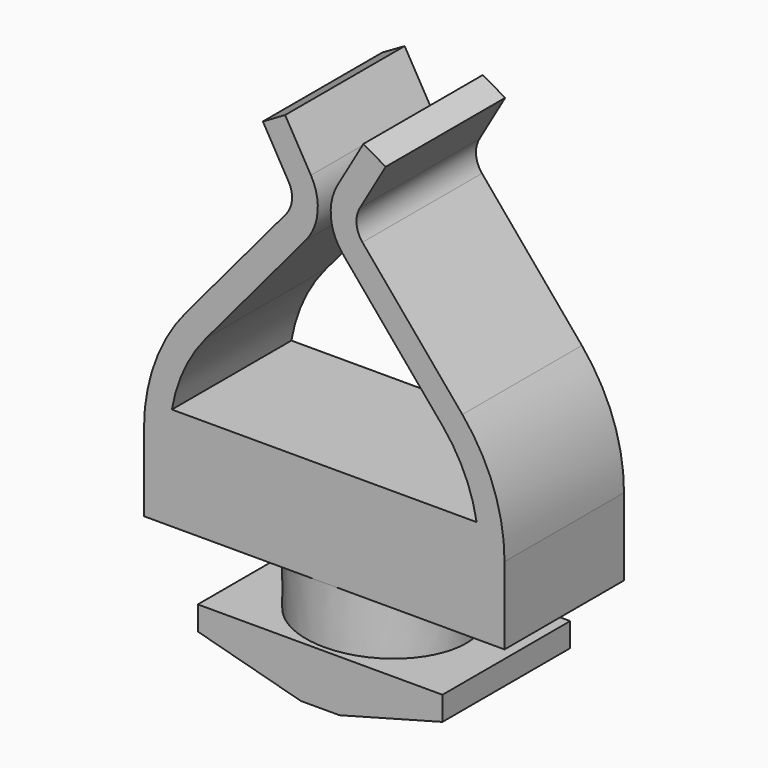
from build123d import *

# Parameters (mm, degrees)
F0_W     = 14
F0_H     = 3
F1_DEPTH = 2.9
F3_DEPTH = 2.2
F4_W     = 9.5
F4_H     = 2
F5_DEPTH = 3.1
F6_SIZE2 = 1.0717967697
F6_SIZE  = 4
F8_DEPTH = 2.9


with BuildPart() as f1:
    # F0 (on Front) → F1 (new body, symmetric)
    with BuildSketch(Plane.XZ):
        with Locations((0, 1.5)):
            Rectangle(F0_W, F0_H)
    extrude(amount=F1_DEPTH, both=True)

    # F2 (on face) → F3 (join)
    with BuildSketch(Plane(origin=(0, 0, 0), x_dir=(1, 0, 0), z_dir=(0, 0, -1))):
        with BuildLine():
            add(Edge.make_bspline(
                [(3.2, 0), (3.2, 5.0229473419), (-1.6, 2.511473671), (-6.4, 0), (-1.6, -2.511473671), (3.2, -5.0229473419), (3.2, 0)],
                knots=[0, 0, 0, 2.0943951024, 2.0943951024, 4.1887902048, 4.1887902048, 6.2831853072, 6.2831853072, 6.2831853072], degree=2, weights=[1, 0.5, 1, 0.5, 1, 0.5, 1]))
        make_face()
    extrude(amount=F3_DEPTH)

    # F4 (on Front) → F5 (join, symmetric)
    with BuildSketch(Plane.XZ):
        with Locations((0, -3.2)):
            Rectangle(F4_W, F4_H)
    extrude(amount=F5_DEPTH, both=True)

    # F6
    f6_edges = [f1.edges().sort_by_distance(p)[0] for p in [
        (4.75, 0, -4.2),
        (-4.75, 0, -4.2),
    ]]
    f6_side = f1.faces().sort_by_distance((0, 0, -4.2))[0]
    chamfer(f6_edges, length=F6_SIZE, length2=F6_SIZE2, reference=f6_side)

    # F7 (on Front) → F8 (join, symmetric)
    with BuildSketch(Plane.XZ):
        with BuildLine():
            Line((-7, 3), (7, 3))
            ThreePointArc((7, 3), (6.5778483455, 5.3941410033), (5.3623111018, 7.4995132678))
            Line((5.3623111018, 7.4995132678), (1.4839555569, 12.1215574219))
            ThreePointArc((1.4839555569, 12.1215574219), (1.2538053019, 12.6771892888), (1.3839745962, 13.2643450315))
            Line((1.3839745962, 13.2643450315), (2.3839745962, 14.9963958391))
            Line((2.3839745962, 14.9963958391), (1.5179493662, 15.4963957388))
            Line((1.5179493662, 15.4963957388), (0.5179493662, 13.7643449312))
            ThreePointArc((0.5179493662, 13.7643449312), (0.2576108037, 12.5900335635), (0.7179112675, 11.4787699411))
            Line((0.7179112675, 11.4787699411), (4.5962668124, 6.8567257871))
            ThreePointArc((4.5962668124, 6.8567257871), (5.4467953721, 5.5164305239), (5.9160800205, 3.9999997994))
            Line((5.9160800205, 3.9999997994), (-5.9160800205, 3.9999997994))
            ThreePointArc((-5.9160800205, 3.9999997994), (-5.4467953721, 5.5164305239), (-4.5962668124, 6.8567257871))
            Line((-4.5962668124, 6.8567257871), (-0.7179112675, 11.4787699411))
            ThreePointArc((-0.7179112675, 11.4787699411), (-0.2576108037, 12.5900335635), (-0.5179493662, 13.7643449312))
            Line((-0.5179493662, 13.7643449312), (-1.5179493662, 15.4963957388))
            Line((-1.5179493662, 15.4963957388), (-2.3839745962, 14.9963958391))
            Line((-2.3839745962, 14.9963958391), (-1.3839745962, 13.2643450315))
            ThreePointArc((-1.3839745962, 13.2643450315), (-1.2538053019, 12.6771892888), (-1.4839555569, 12.1215574219))
            Line((-1.4839555569, 12.1215574219), (-5.3623111018, 7.4995132678))
            ThreePointArc((-5.3623111018, 7.4995132678), (-6.5778483455, 5.3941410033), (-7, 3))
        make_face()
    extrude(amount=F8_DEPTH, both=True)


solid = f1.part
